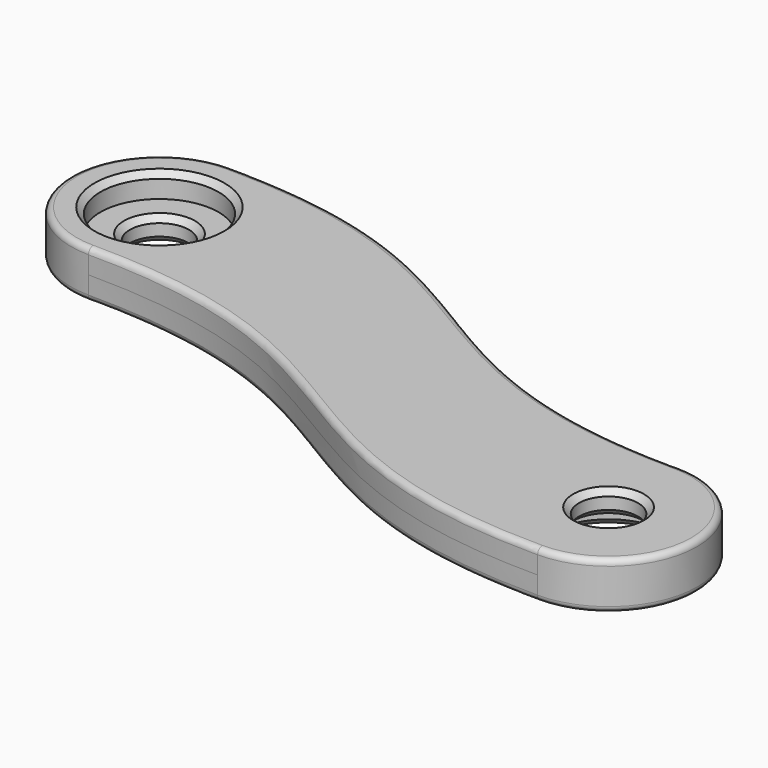
from build123d import *

# Parameters (mm, degrees)
F0_R     = 5
F0_R_2   = 2.5
F1_DEPTH = 2
F2_DEPTH = 2
F3_SIZE  = 0.5
F4_R     = 0.5


with BuildPart() as f1:
    # F0 (on Top) → F1 (new body)
    with BuildSketch(Plane.XY):
        with BuildLine():
            ThreePointArc((-25, 15), (-19.6966991411, 12.8033008589), (-17.5, 7.5))
            ThreePointArc((-17.5, 7.5), (-19.6966991411, 2.1966991411), (-25, 0))
            add(Edge.make_bspline(
                [(-25, 0), (0, 0), (0, -15), (25, -15)],
                knots=[0, 0, 0, 0, 52.2015325446, 52.2015325446, 52.2015325446, 52.2015325446], degree=3))
            ThreePointArc((25, -15), (17.5, -7.5), (25, 0))
            add(Edge.make_bspline(
                [(-25, 15), (0, 15), (0, 0), (25, 0)],
                knots=[0, 0, 0, 0, 52.2015325446, 52.2015325446, 52.2015325446, 52.2015325446], degree=3))
        make_face()
        with BuildLine():
            ThreePointArc((-25, 0), (-19.6966991411, 2.1966991411), (-17.5, 7.5))
            ThreePointArc((-17.5, 7.5), (-19.6966991411, 12.8033008589), (-25, 15))
            ThreePointArc((-25, 15), (-32.5, 7.5), (-25, 0))
        make_face()
        with Locations((-25, 7.5)):
            Circle(F0_R, mode=Mode.SUBTRACT)
        with BuildLine():
            ThreePointArc((32.5, -7.5), (30.3033008589, -2.1966991411), (25, 0))
            ThreePointArc((25, 0), (17.5, -7.5), (25, -15))
            ThreePointArc((25, -15), (30.3033008589, -12.8033008589), (32.5, -7.5))
        make_face()
        with Locations((25, -7.5)):
            Circle(F0_R, mode=Mode.SUBTRACT)
        with Locations((25, -7.5)):
            Circle(F0_R)
        with Locations((25, -7.5)):
            Circle(F0_R_2, mode=Mode.SUBTRACT)
    extrude(amount=F1_DEPTH)

    # F0 (on Top) → F2 (join)
    with BuildSketch(Plane.XY):
        with BuildLine():
            ThreePointArc((-25, 0), (-19.6966991411, 2.1966991411), (-17.5, 7.5))
            ThreePointArc((-17.5, 7.5), (-19.6966991411, 12.8033008589), (-25, 15))
            ThreePointArc((-25, 15), (-32.5, 7.5), (-25, 0))
        make_face()
        with Locations((-25, 7.5)):
            Circle(F0_R, mode=Mode.SUBTRACT)
        with BuildLine():
            ThreePointArc((-25, 15), (-19.6966991411, 12.8033008589), (-17.5, 7.5))
            ThreePointArc((-17.5, 7.5), (-19.6966991411, 2.1966991411), (-25, 0))
            add(Edge.make_bspline(
                [(-25, 0), (0, 0), (0, -15), (25, -15)],
                knots=[0, 0, 0, 0, 52.2015325446, 52.2015325446, 52.2015325446, 52.2015325446], degree=3))
            ThreePointArc((25, -15), (17.5, -7.5), (25, 0))
            add(Edge.make_bspline(
                [(-25, 15), (0, 15), (0, 0), (25, 0)],
                knots=[0, 0, 0, 0, 52.2015325446, 52.2015325446, 52.2015325446, 52.2015325446], degree=3))
        make_face()
        with BuildLine():
            ThreePointArc((32.5, -7.5), (30.3033008589, -2.1966991411), (25, 0))
            ThreePointArc((25, 0), (17.5, -7.5), (25, -15))
            ThreePointArc((25, -15), (30.3033008589, -12.8033008589), (32.5, -7.5))
        make_face()
        with Locations((25, -7.5)):
            Circle(F0_R, mode=Mode.SUBTRACT)
        with Locations((-25, 7.5)):
            Circle(F0_R)
        with Locations((-25, 7.5)):
            Circle(F0_R_2, mode=Mode.SUBTRACT)
    extrude(amount=-F2_DEPTH)

    # F3
    f3_edges = [f1.edges().sort_by_distance(p)[0] for p in [
        (-30, 7.5, 2),
        (22.5, -7.5, 2),
        (-27.5, 7.5, 0),
        (-27.5, 7.5, -2),
        (20, -7.5, -2),
        (22.5, -7.5, 0),
    ]]
    chamfer(f3_edges, length=F3_SIZE)

    # F4
    f4_edges = [f1.edges().sort_by_distance(p)[0] for p in [
        (-1.5e-05, 7.500009, -2),
        (-1.5e-05, 7.500009, 2),
    ]]
    fillet(f4_edges, radius=F4_R)


solid = f1.part
